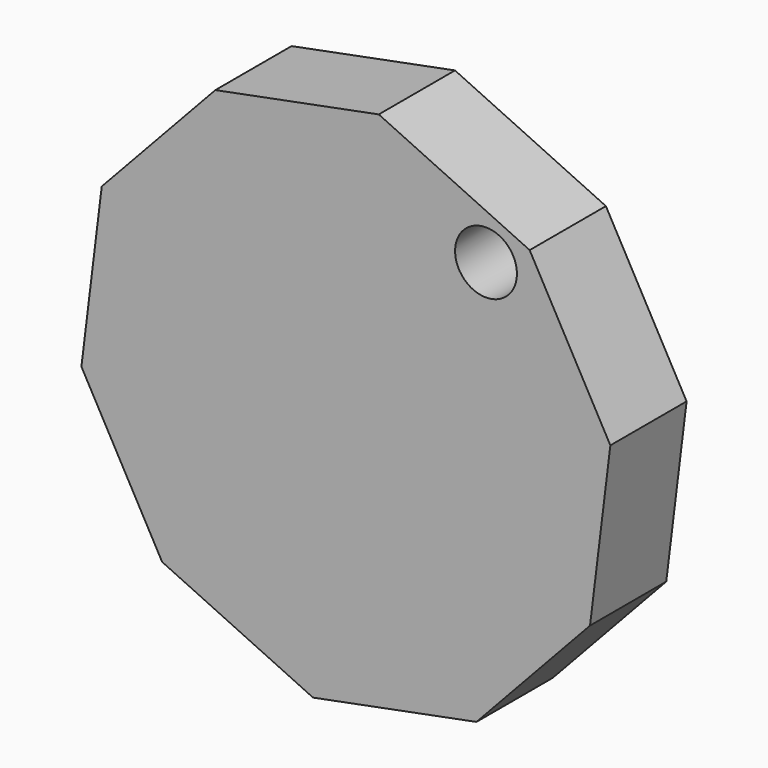
from build123d import *

# Parameters (mm, degrees)
F1_DEPTH = 13.7
F2_R     = 4.444908
F3_DEPTH = 39.7


with BuildPart() as f1:
    # F0 (on Front) → F1 (new body)
    with BuildSketch(Plane.XZ):
        Polygon((-13.312602, -23.678319), (10.187137, -19.115189), (26.516685, -1.61074), (29.438709, 22.148925), (17.837096, 43.08842), (-3.856732, 53.20957), (-27.356471, 48.646441), (-43.686019, 31.141991), (-46.608043, 7.382327), (-35.00643, -13.557168), align=None)
    extrude(amount=F1_DEPTH)

    # F2 (on face) → F3 (cut)
    with BuildSketch(Plane.XZ.offset(13.7)):
        with Locations((11.560684, 39.489463)):
            Circle(F2_R)
    extrude(amount=-F3_DEPTH, mode=Mode.SUBTRACT)


solid = f1.part
